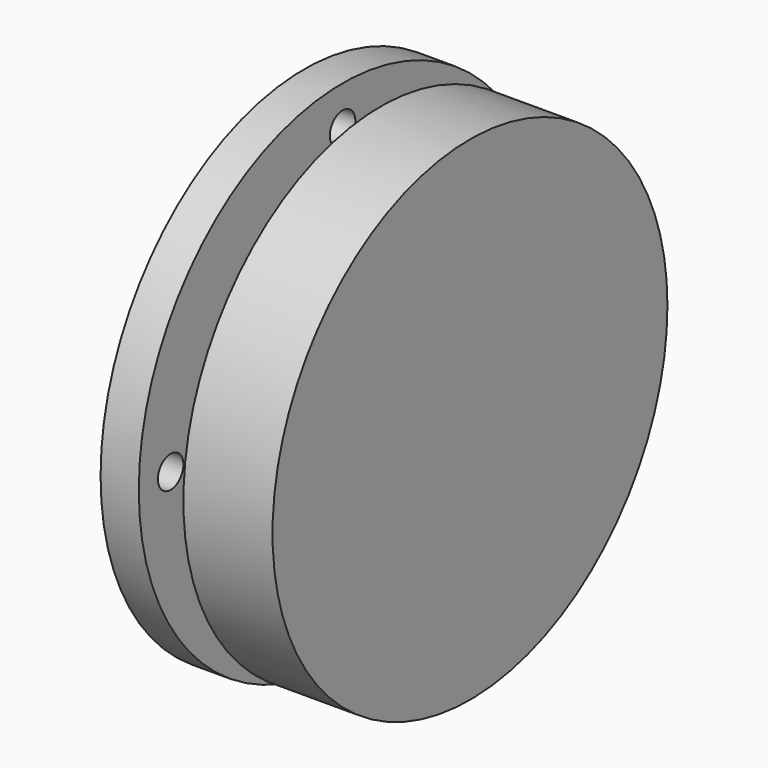
from build123d import *

# Parameters (mm, degrees)
F0_R          = 80
F0_R_2        = 5
F0_R_3        = 55
F1_DEPTH      = 12
F0_R_4        = 50
F2_DEPTH      = 4
F2_DEPTH_BACK = 12
F4_START      = 12
F3_R          = 77.5
F4_DEPTH      = 28


with BuildPart() as f1:
    # F0 (on Right) → F1 (new body)
    with BuildSketch(Plane.YZ):
        Circle(F0_R)
        with Locations((0, -67.5)):
            Circle(F0_R_2, mode=Mode.SUBTRACT)
        with Locations((-67.5, 0)):
            Circle(F0_R_2, mode=Mode.SUBTRACT)
        Circle(F0_R_3, mode=Mode.SUBTRACT)
        with Locations((67.5, 0)):
            Circle(F0_R_2, mode=Mode.SUBTRACT)
        with Locations((0, 67.5)):
            Circle(F0_R_2, mode=Mode.SUBTRACT)
    extrude(amount=-F1_DEPTH)

    # F0 (on Right) → F2 (join, two sides)
    with BuildSketch(Plane.YZ) as f2_sk:
        Circle(F0_R_3)
        Circle(F0_R_4, mode=Mode.SUBTRACT)
    extrude(amount=F2_DEPTH)
    extrude(f2_sk.sketch, amount=-F2_DEPTH_BACK)


with BuildPart() as f4:
    # F3 (on Right) → F4 (new body)
    with BuildSketch(Plane.YZ.offset(F4_START)):
        Circle(F3_R)
    extrude(amount=F4_DEPTH)


solid = Compound([f1.part, f4.part])
